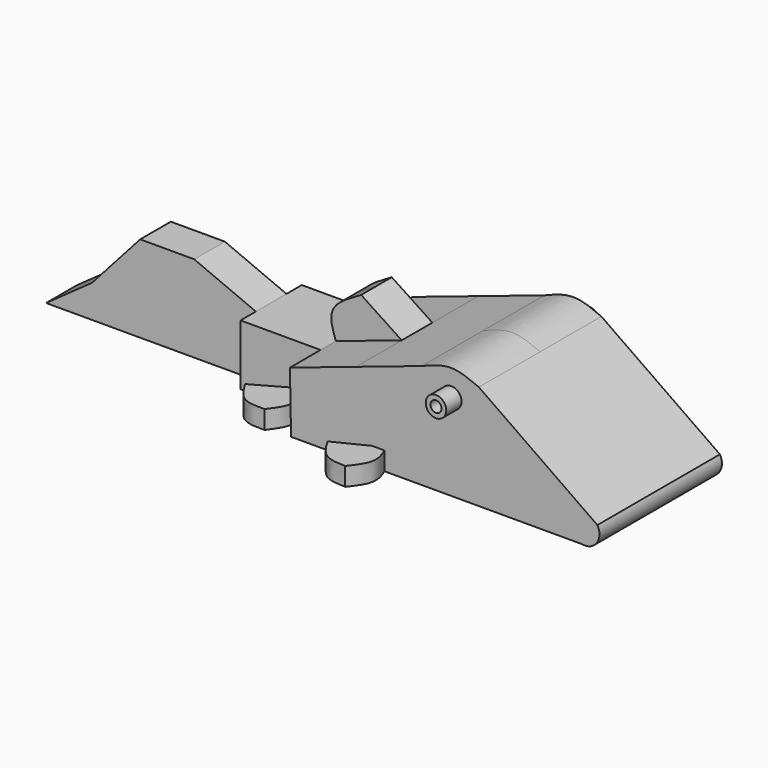
from build123d import *

# Parameters (mm, degrees)
F0_R     = 0.8499357061
F1_DEPTH = 6.35
F2_DEPTH = 3.175
F3_DEPTH = 1.5875
F4_DEPTH = 1.5875
F0_R_2   = 0.4591365961
F5_DEPTH = 7.9375
F6_DEPTH = 6.35
F9_DEPTH = 1.524


with BuildPart() as f1:
    # F0 (on Front) → F1 (new body, symmetric)
    with BuildSketch(Plane.XZ):
        with BuildLine():
            Line((3.7369009076, -7.1760629105), (27.8668981838, -7.1645976751))
            ThreePointArc((27.8668981838, -7.1645976751), (29.0924289966, -6.6745059956), (29.1452982829, -5.3556730016))
            Line((29.1452982829, -5.3556730016), (19.3140551537, 1.5164437805))
            add(Edge.make_bspline(
                [(19.3140551537, 1.5164437805), (18.5598178705, 1.842624393), (17.0255294285, 2.5061492361), (15.3991179845, 1.8500253214), (14.5722303488, 1.5164437805)],
                knots=[0, 0, 0, 0, 0.4915876753, 1, 1, 1, 1], degree=3))
            Line((14.5722303488, 1.5164437805), (9.1069049254, -0.31865054))
            Line((9.1069049254, -0.31865054), (3.641579502, -2.1537448606))
            Line((3.641579502, -2.1537448606), (3.7369009076, -7.1760629105))
        make_face()
        with Locations((17.0290809923, 0)):
            Circle(F0_R, mode=Mode.SUBTRACT)
    extrude(amount=F1_DEPTH, both=True)

    # F0 (on Front) → F2 (join, symmetric)
    with BuildSketch(Plane.XZ):
        Polygon((-3.0088014841, -7.1792680938), (3.7369009076, -7.1760629105), (3.641579502, -2.1537448606), (-2.9932308073, -2.1537448606), align=None)
    extrude(amount=F2_DEPTH, both=True)

    # F0 (on Front) → F3 (join, symmetric)
    with BuildSketch(Plane.XZ):
        Polygon((-20.3930963686, -7.1875281459), (-3.0088014841, -7.1792680938), (-2.9932308073, -2.1537448606), (-8.1067462721, 0), (-12.5872229892, 0), (-16.5754726262, -4.4647546742), align=None)
    extrude(amount=F3_DEPTH, both=True)

    # F0 (on Front) → F4 (join, symmetric)
    with BuildSketch(Plane.XZ):
        with BuildLine():
            add(Edge.make_bspline(
                [(5.739697431, 1.9025673836), (4.7061257381, 1.3267304785), (2.7990985393, 0.2642627845), (3.3769243884, -1.3941566443), (3.641579502, -2.1537448606)],
                knots=[0, 0, 0, 0, 0.5419806321, 1, 1, 1, 1], degree=3))
            Line((3.641579502, -2.1537448606), (9.1069049254, -0.31865054))
            Line((9.1069049254, -0.31865054), (5.739697431, 1.9025673836))
        make_face()
    extrude(amount=F4_DEPTH, both=True)

    # F0 (on Front) → F5 (join, symmetric)
    with BuildSketch(Plane.XZ):
        with Locations((17.0290809923, 0)):
            Circle(F0_R)
        with Locations((17.0290809923, 0)):
            Circle(F0_R_2, mode=Mode.SUBTRACT)
    extrude(amount=F5_DEPTH, both=True)

    # F0 (on Front) → F6 (join, symmetric)
    with BuildSketch(Plane.XZ):
        with Locations((17.0290809923, 0)):
            Circle(F0_R_2)
    extrude(amount=F6_DEPTH, both=True)

    # F8 (on offset) → F9 (join)
    with BuildSketch(Plane(origin=(0.0034105097, 0, -7.1778368579), x_dir=(0.9999998871, 0, 0.0004751444), z_dir=(0.0004751444, 0, -0.9999998871))):
        with BuildLine():
            Line((10.5719827116, 6.2902872451), (11.4731285721, 6.2886215746))
            add(Edge.make_bspline(
                [(11.4731285721, 6.2886215746), (11.6881530578, 6.8505612185), (12.1330545046, 8.0132553954), (11.2921062686, 9.0884414112), (10.8575951308, 9.6439812332)],
                knots=[0, 0, 0, 0, 0.483308128, 1, 1, 1, 1], degree=3))
            add(Edge.make_bspline(
                [(10.8575951308, 9.6439812332), (10.2459421425, 9.6264263255), (8.9601619026, 9.5895234992), (8.2060067921, 8.3258092197), (7.8106075525, 7.6632509008)],
                knots=[0, 0, 0, 0, 0.4757056489, 1, 1, 1, 1], degree=3))
            Line((7.8106075525, 7.6632509008), (10.5719827116, 6.2902872451))
        make_face()
        with BuildLine():
            add(Edge.make_bspline(
                [(11.445928365, -6.2551540323), (11.7208028901, -6.8377598255), (12.2652189582, -7.9916679237), (11.6289449799, -9.0578690758), (11.3139245659, -9.5857474953)],
                knots=[0, 0, 0, 0, 0.5048979368, 1, 1, 1, 1], degree=3))
            Line((11.445928365, -6.2551540323), (10.5652892962, -6.2281796709))
            Line((10.5652892962, -6.2281796709), (8.0862324685, -7.7491207048))
            add(Edge.make_bspline(
                [(11.3139245659, -9.5857474953), (10.7293926361, -9.5187590976), (9.5019236971, -9.3780889543), (8.572864944, -8.3090653448), (8.0862324685, -7.7491207048)],
                knots=[0, 0, 0, 0, 0.4762091973, 1, 1, 1, 1], degree=3))
        make_face()
        with BuildLine():
            add(Edge.make_bspline(
                [(2.4012238719, -3.135364037), (2.5766554897, -3.6317241258), (2.9495824062, -4.6868706955), (2.4212189682, -5.9031792319), (2.1414074581, -6.5473141149)],
                knots=[0, 0, 0, 0, 0.4704182467, 1, 1, 1, 1], degree=3))
            Line((2.4012238719, -3.135364037), (1.5678445343, -3.1441783067))
            Line((1.5678445343, -3.1441783067), (-1.2165163644, -4.6103880741))
            add(Edge.make_bspline(
                [(2.1414074581, -6.5473141149), (1.5835583581, -6.4193566225), (0.3958954029, -6.1469346133), (-0.6577640532, -5.1428505543), (-1.2165163644, -4.6103880741)],
                knots=[0, 0, 0, 0, 0.4697032587, 1, 1, 1, 1], degree=3))
        make_face()
        with BuildLine():
            Line((1.3515800238, 3.1687226146), (2.3737214506, 3.1360480934))
            add(Edge.make_bspline(
                [(2.3737214506, 3.1360480934), (2.5897819708, 3.7493472374), (3.0287531003, 4.9953902449), (2.2088825996, 6.1050612637), (1.792550087, 6.6685550846)],
                knots=[0, 0, 0, 0, 0.4921974706, 1, 1, 1, 1], degree=3))
            add(Edge.make_bspline(
                [(1.792550087, 6.6685550846), (1.1529153889, 6.6804914863), (-0.1895757498, 6.7055440354), (-0.9754613011, 5.3946395707), (-1.3869088143, 4.7083199024)],
                knots=[0, 0, 0, 0, 0.4764535334, 1, 1, 1, 1], degree=3))
            Line((-1.3869088143, 4.7083199024), (1.3515800238, 3.1687226146))
        make_face()
    extrude(amount=-F9_DEPTH)


solid = f1.part
